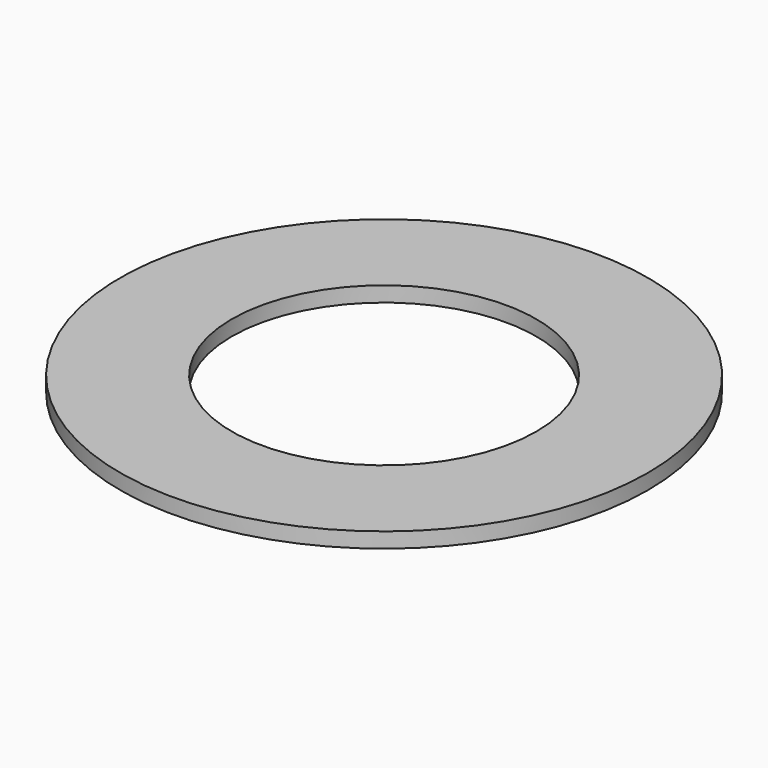
from build123d import *

# Parameters (mm, degrees)
CYLINDER001_R     = 0.3
CYLINDER001_DEPTH = 1
CYLINDER_R        = 0.52
CYLINDER_DEPTH    = 0.03


with BuildPart() as cylinder001:
    # Cylinder001 → Cylinder001 (new body)
    with BuildSketch(Plane.XY.offset(-0.5)):
        Circle(CYLINDER001_R)
    extrude(amount=CYLINDER001_DEPTH)


with BuildPart() as obj1:
    # Cylinder → Cylinder (new body)
    with BuildSketch(Plane.XY):
        Circle(CYLINDER_R)
    extrude(amount=CYLINDER_DEPTH)

    # Cut: cut Cylinder001
    add(cylinder001.part, mode=Mode.SUBTRACT)


solid = obj1.part
